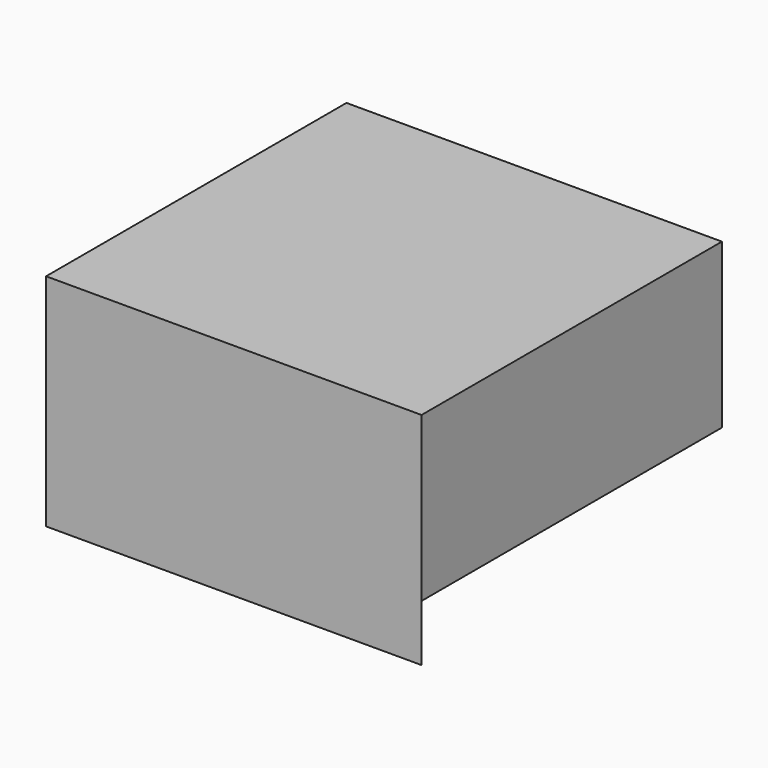
from build123d import *

# Parameters (mm, degrees)
F1_DEPTH = 42.2275
F3_DEPTH = 12.7


with BuildPart() as f1:
    # F0 (on Front) → F1 (new body, symmetric)
    with BuildSketch(Plane.XZ):
        Polygon((-38.1, 0), (0, 0), (46.355, 0), (46.355, 36.83), (0, 36.83), (-38.1, 36.83), align=None)
    extrude(amount=F1_DEPTH, both=True)

    # F2 (on face) → F3 (join)
    with BuildSketch(Plane(origin=(0, 0, 0), x_dir=(1, 0, 0), z_dir=(0, 0, -1))):
        with BuildLine():
            ThreePointArc((-3.038860673, -3.0068493958), (1.6255183313, -3.9539230687), (4.2750225121, 0))
            ThreePointArc((4.2750225121, 0), (3.9056421533, 1.7383258754), (2.8613331851, 3.1762540646))
            ThreePointArc((2.8613331851, 3.1762540646), (-0.0769751858, 4.2743294561), (-2.9738412726, 3.0711700643))
            ThreePointArc((-2.9738412726, 3.0711700643), (-4.2747779254, 0.0457292872), (-3.038860673, -3.0068493958))
        make_face()
        with BuildLine():
            Line((46.355, 42.2275), (-38.1, 42.2275))
            Line((-38.1, 42.2275), (-2.9738412726, 3.0711700643))
            ThreePointArc((-2.9738412726, 3.0711700643), (-0.0769751858, 4.2743294561), (2.8613331851, 3.1762540646))
            Line((2.8613331851, 3.1762540646), (46.355, 42.2275))
        make_face()
    extrude(amount=F3_DEPTH)


solid = f1.part
